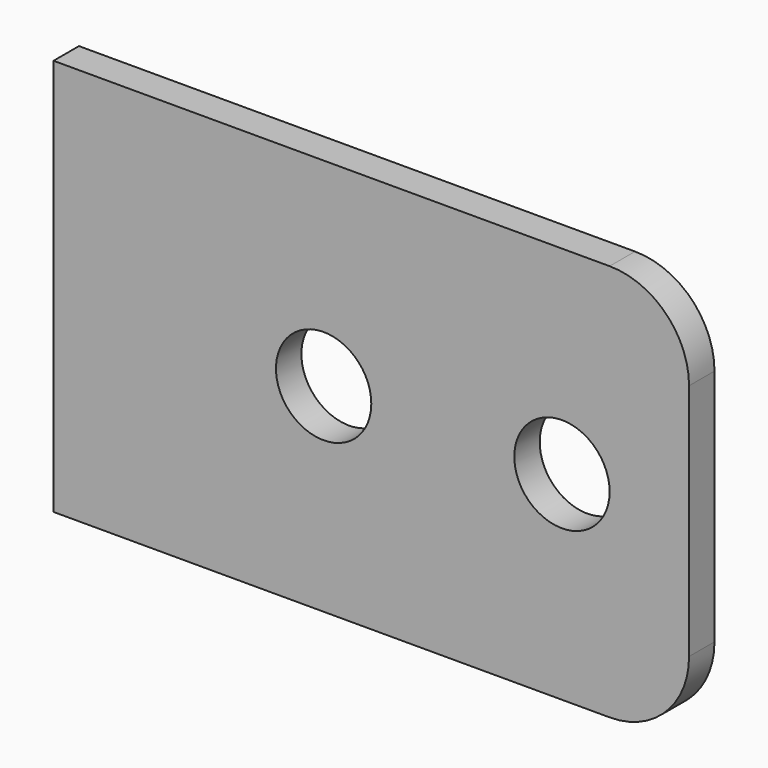
from build123d import *

# Parameters (mm, degrees)
CYLINDER001_R     = 3
CYLINDER001_DEPTH = 10
CYLINDER002_R     = 3
CYLINDER002_DEPTH = 10
BOX_W             = 40
BOX_H             = 2
BOX_DEPTH         = 25
FILLET_R          = 5


with BuildPart() as cylinder001:
    # Cylinder001 → Cylinder001 (new body)
    with BuildSketch(Plane(origin=(32, -5, 12.5), x_dir=(1, 0, 0), z_dir=(0, 1, 0))):
        Circle(CYLINDER001_R)
    extrude(amount=CYLINDER001_DEPTH)


with BuildPart() as compound:
    # Cylinder002 → Cylinder002 (new body)
    with BuildSketch(Plane(origin=(17, -5, 12.5), x_dir=(1, 0, 0), z_dir=(0, 1, 0))):
        Circle(CYLINDER002_R)
    extrude(amount=CYLINDER002_DEPTH)

    # Compound: union Cylinder001
    add(cylinder001.part)


with BuildPart() as cut:
    # Box → Box (new body)
    with BuildSketch(Plane(origin=(0, -1, 0), x_dir=(1, 0, 0), z_dir=(0, 0, 1))):
        with Locations((20, 1)):
            Rectangle(BOX_W, BOX_H)
    extrude(amount=BOX_DEPTH)

    # Fillet
    fillet_edges = [cut.edges().sort_by_distance(p)[0] for p in [
        (40, 0, 25),
        (40, 0, 0),
    ]]
    fillet(fillet_edges, radius=FILLET_R)

    # Cut: cut Compound
    add(compound.part, mode=Mode.SUBTRACT)


with BuildPart() as cut_1:
    # Cut placement: moved
    add(cut.part.moved(Location((10, 0, 3))))


solid = cut_1.part
